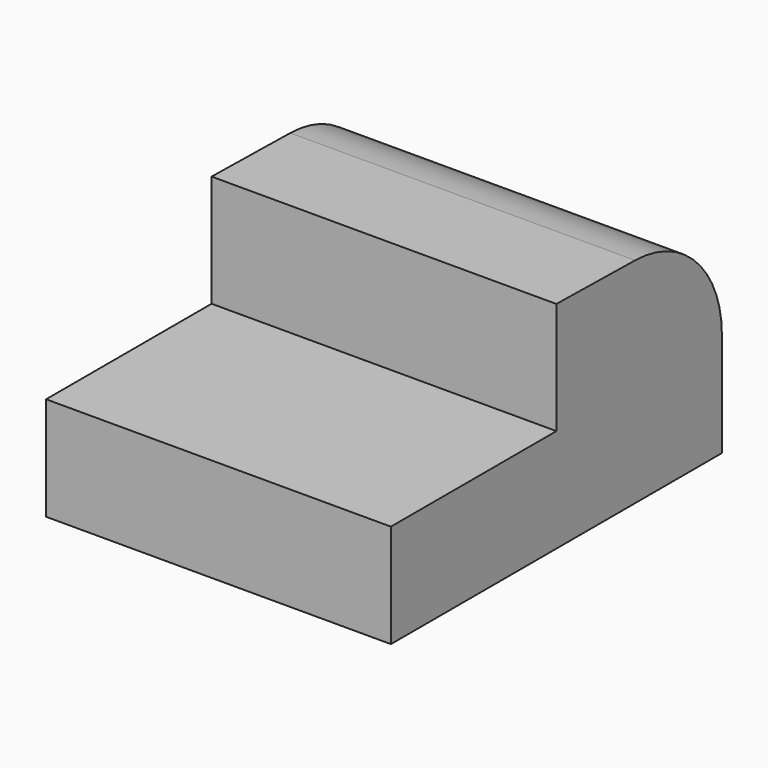
from build123d import *

# Parameters (mm, degrees)
F1_DEPTH = 7.9375


with BuildPart() as f1:
    # F0 (on Right) → F1 (new body, symmetric)
    with BuildSketch(Plane.YZ):
        Polygon((9.525, -2.38125), (9.525, 2.38125), (0, 2.38125), (-9.525, 2.38125), (-9.525, -2.38125), align=None)
        with BuildLine():
            Line((0, 2.38125), (9.525, 2.38125))
            ThreePointArc((9.525, 2.38125), (8.066443, 5.94377), (4.528328, 7.460567))
            Line((4.528328, 7.460567), (0, 7.534855))
            Line((0, 7.534855), (0, 2.38125))
        make_face()
    extrude(amount=F1_DEPTH, both=True)


solid = f1.part
